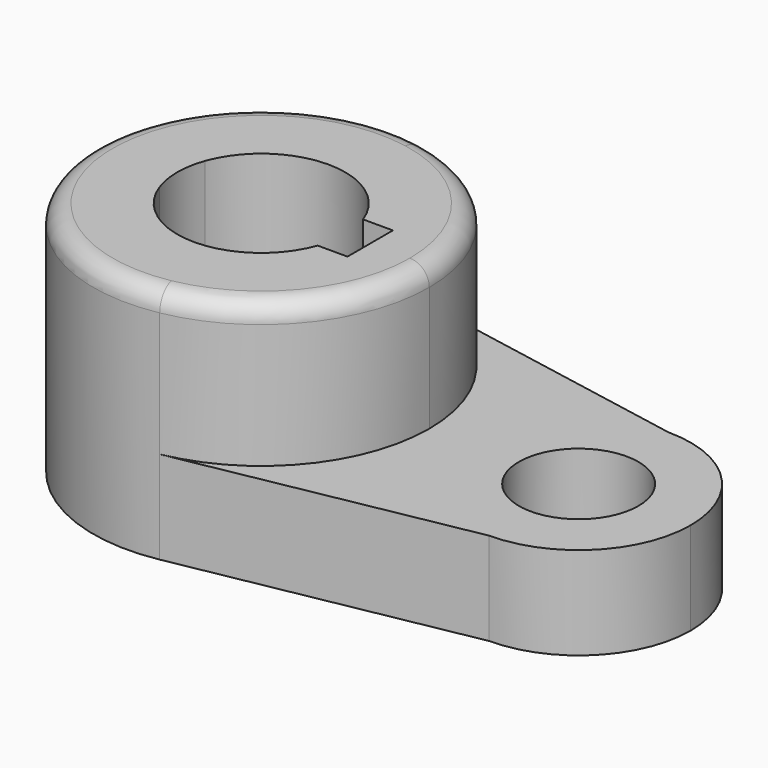
from build123d import *

# Parameters (mm, degrees)
F1_DEPTH = 40.2336
F0_R     = 10.16
F2_DEPTH = 15.7734
F3_R     = 3.302


with BuildPart() as f1:
    # F0 (on Top) → F1 (new body)
    with BuildSketch(Plane.XY):
        with BuildLine():
            ThreePointArc((5.211817, -28.095686), (21.971098, -18.270235), (28.575, 0))
            ThreePointArc((28.575, 0), (21.971098, 18.270235), (5.211817, 28.095686))
            ThreePointArc((5.211817, 28.095686), (-28.575, 0), (5.211817, -28.095686))
        make_face()
        with BuildLine():
            ThreePointArc((-13.447765, 4.826), (0, 14.2875), (13.447765, 4.826))
            Line((13.447765, 4.826), (18.5293, 4.826))
            Line((18.5293, 4.826), (18.5293, -4.826))
            Line((18.5293, -4.826), (13.447765, -4.826))
            ThreePointArc((13.447765, -4.826), (0, -14.2875), (-13.447765, -4.826))
            Line((-13.447765, -4.826), (-18.5293, -4.826))
            Line((-18.5293, -4.826), (-18.5293, 4.826))
            Line((-18.5293, 4.826), (-13.447765, 4.826))
        make_face(mode=Mode.SUBTRACT)
        with BuildLine():
            ThreePointArc((-13.447765, -4.826), (-14.2875, 0), (-13.447765, 4.826))
            Line((-13.447765, 4.826), (-18.5293, 4.826))
            Line((-18.5293, 4.826), (-18.5293, -4.826))
            Line((-18.5293, -4.826), (-13.447765, -4.826))
        make_face()
    extrude(amount=F1_DEPTH)

    # F0 (on Top) → F2 (join)
    with BuildSketch(Plane.XY):
        with BuildLine():
            ThreePointArc((5.211817, 28.095686), (21.971098, 18.270235), (28.575, 0))
            ThreePointArc((28.575, 0), (21.971098, -18.270235), (5.211817, -28.095686))
            Line((5.211817, -28.095686), (53.975, -19.05))
            ThreePointArc((53.975, -19.05), (67.445384, -13.470384), (73.025, 0))
            ThreePointArc((73.025, 0), (67.445384, 13.470384), (53.975, 19.05))
            Line((53.975, 19.05), (5.211817, 28.095686))
        make_face()
        with Locations((53.975, 0)):
            Circle(F0_R, mode=Mode.SUBTRACT)
    extrude(amount=F2_DEPTH)

    # F3
    f3_edges = [f1.edges().sort_by_distance(p)[0] for p in [
        (-5.211817, 28.095686, 40.2336),
    ]]
    fillet(f3_edges, radius=F3_R)


solid = f1.part
